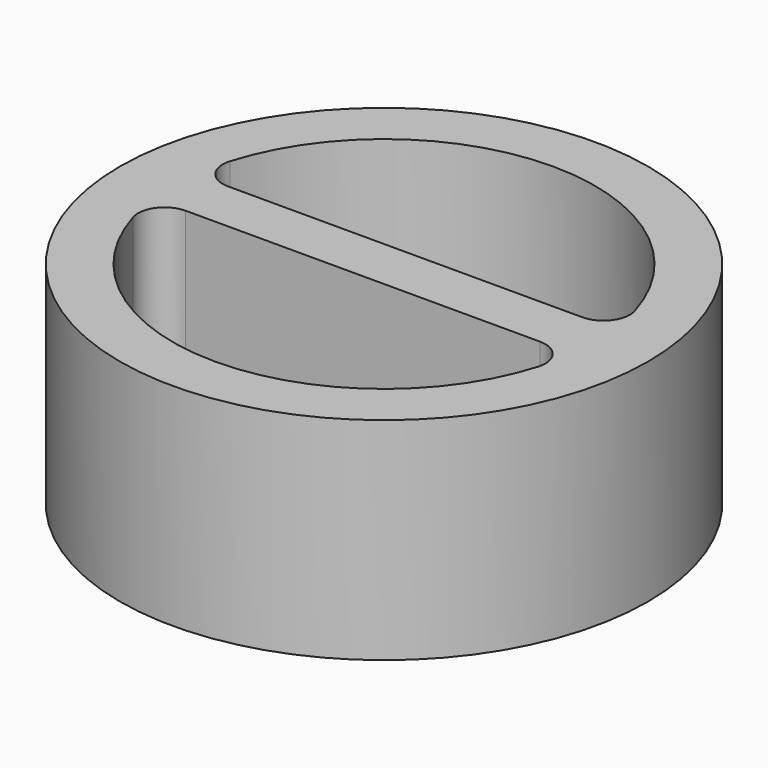
from build123d import *

# Parameters (mm, degrees)
F1_DEPTH = 12.7


with BuildPart() as f1:
    # F0 (on Top) → F1 (new body)
    with BuildSketch(Plane.XY):
        with BuildLine():
            Line((-15.875, 0), (15.875, 0))
            ThreePointArc((15.875, 0), (0, 15.875), (-15.875, 0))
        make_face()
        with BuildLine():
            Line((10.649274, 1.5875), (-10.649274, 1.5875))
            ThreePointArc((-10.649274, 1.5875), (-11.922105, 2.226287), (-12.170599, 3.628571))
            ThreePointArc((-12.170599, 3.628571), (0, 12.7), (12.170599, 3.628571))
            ThreePointArc((12.170599, 3.628571), (11.922105, 2.226287), (10.649274, 1.5875))
        make_face(mode=Mode.SUBTRACT)
        with BuildLine():
            ThreePointArc((-15.875, 0), (0, -15.875), (15.875, 0))
            Line((15.875, 0), (-15.875, 0))
        make_face()
        with BuildLine():
            ThreePointArc((12.170599, -3.628571), (0, -12.7), (-12.170599, -3.628571))
            ThreePointArc((-12.170599, -3.628571), (-11.922105, -2.226287), (-10.649274, -1.5875))
            Line((-10.649274, -1.5875), (10.649274, -1.5875))
            ThreePointArc((10.649274, -1.5875), (11.922105, -2.226287), (12.170599, -3.628571))
        make_face(mode=Mode.SUBTRACT)
    extrude(amount=F1_DEPTH)


solid = f1.part
